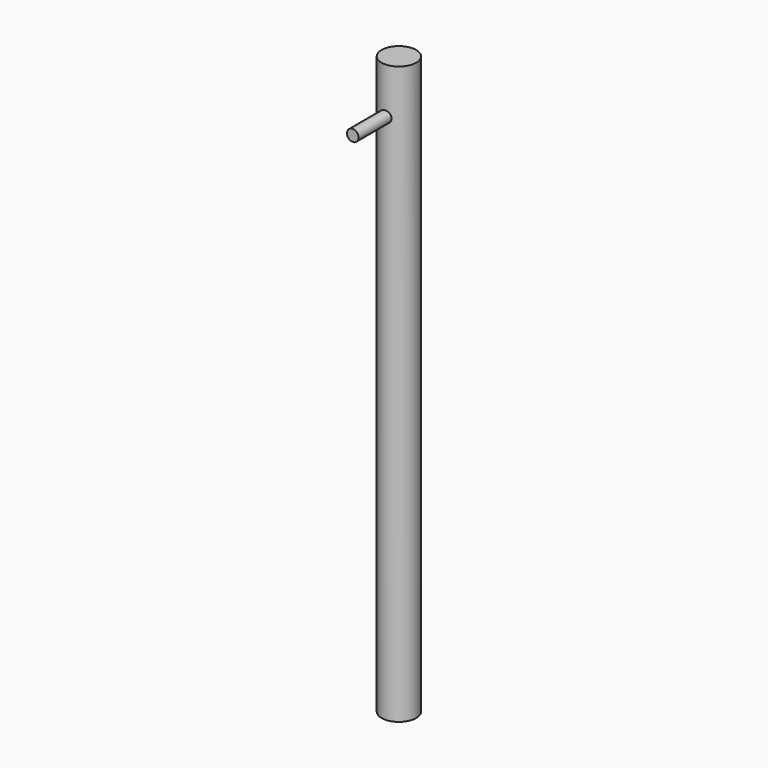
from build123d import *

# Parameters (mm, degrees)
F0_R     = 7.5
F1_DEPTH = 250
F2_R     = 2.5
F3_DEPTH = 25


with BuildPart() as f1:
    # F0 (on Top) → F1 (new body)
    with BuildSketch(Plane.XY):
        Circle(F0_R)
    extrude(amount=F1_DEPTH)

    # F2 (on Front) → F3 (join)
    with BuildSketch(Plane.XZ):
        with Locations((0, 230)):
            Circle(F2_R)
    extrude(amount=F3_DEPTH)


solid = f1.part
